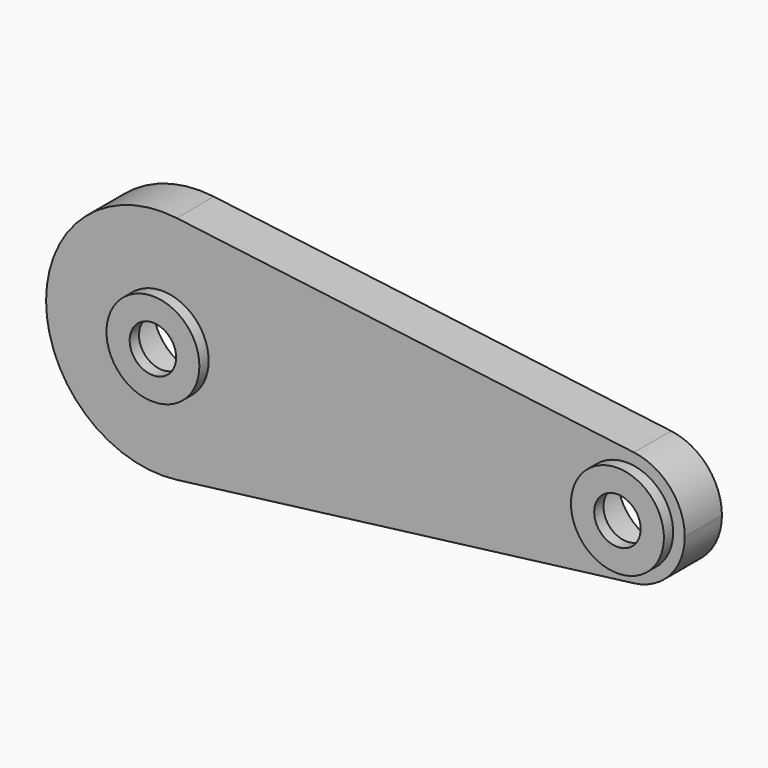
from build123d import *

# Parameters (mm, degrees)
F0_R     = 5.08
F0_R_2   = 2.54
F1_DEPTH = 1.27
F2_DEPTH = 5.08


with BuildPart() as f1:
    # F0 (on Front) → F1 (new body)
    with BuildSketch(Plane.XZ):
        with BuildLine():
            ThreePointArc((30.48, 0), (25.4, 5.08), (20.32, 0))
            ThreePointArc((20.32, 0), (25.4, -5.08), (30.48, 0))
        make_face()
        with BuildLine():
            ThreePointArc((27.94, 0), (25.4, -2.54), (22.86, 0))
            ThreePointArc((22.86, 0), (25.4, 2.54), (27.94, 0))
        make_face(mode=Mode.SUBTRACT)
        with Locations((-25.4, 0)):
            Circle(F0_R)
        with Locations((-25.4, 0)):
            Circle(F0_R_2, mode=Mode.SUBTRACT)
    extrude(amount=F1_DEPTH)


with BuildPart() as f2:
    # F0 (on Front) → F2 (new body)
    with BuildSketch(Plane.XZ):
        with BuildLine():
            ThreePointArc((-23.8125, -12.600391), (-15.875, -8.40026), (-12.7, 0))
            ThreePointArc((-12.7, 0), (-15.875, 8.40026), (-23.8125, 12.600391))
            ThreePointArc((-23.8125, 12.600391), (-38.1, 0), (-23.8125, -12.600391))
        make_face()
        with Locations((-25.4, 0)):
            Circle(F0_R, mode=Mode.SUBTRACT)
        with BuildLine():
            ThreePointArc((-23.8125, 12.600391), (-15.875, 8.40026), (-12.7, 0))
            Line((-12.7, 0), (19.05, 0))
            ThreePointArc((19.05, 0), (21.19987, 4.7625), (26.19375, 6.300195))
            Line((26.19375, 6.300195), (-23.8125, 12.600391))
        make_face()
        with BuildLine():
            Line((19.05, 0), (-12.7, 0))
            ThreePointArc((-12.7, 0), (-15.875, -8.40026), (-23.8125, -12.600391))
            Line((-23.8125, -12.600391), (26.19375, -6.300195))
            ThreePointArc((26.19375, -6.300195), (21.19987, -4.7625), (19.05, 0))
        make_face()
        with BuildLine():
            ThreePointArc((26.19375, 6.300195), (21.19987, 4.7625), (19.05, 0))
            ThreePointArc((19.05, 0), (21.19987, -4.7625), (26.19375, -6.300195))
            ThreePointArc((26.19375, -6.300195), (30.1625, -4.20013), (31.75, 0))
            ThreePointArc((31.75, 0), (30.1625, 4.20013), (26.19375, 6.300195))
        make_face()
        with BuildLine():
            ThreePointArc((30.48, 0), (25.4, -5.08), (20.32, 0))
            ThreePointArc((20.32, 0), (25.4, 5.08), (30.48, 0))
        make_face(mode=Mode.SUBTRACT)
    extrude(amount=-F2_DEPTH)


solid = Compound([f1.part, f2.part])
